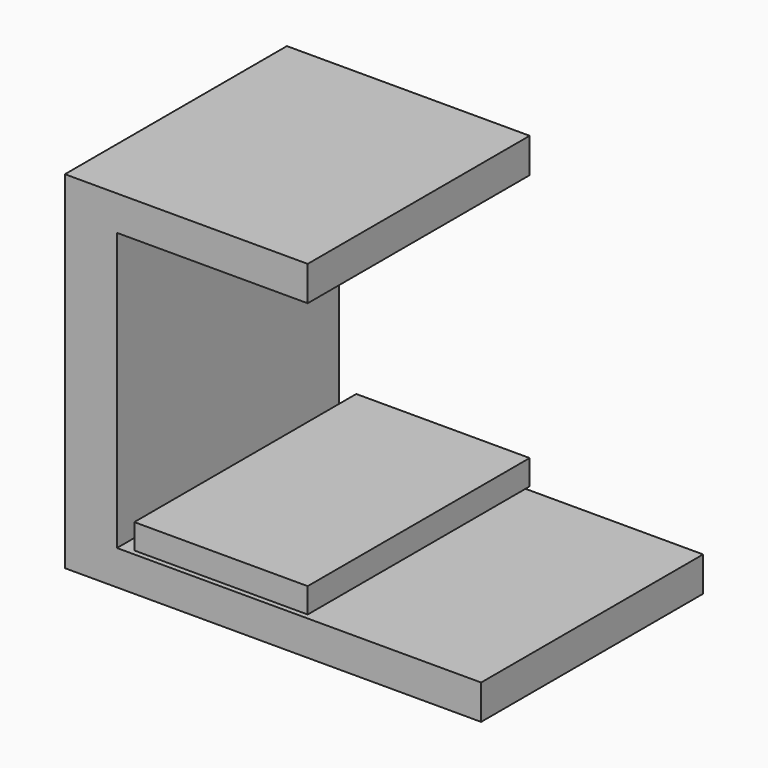
from build123d import *

# Parameters (mm, degrees)
F0_W     = 550
F0_H     = 100
F0_W_2   = 1050
F0_W_3   = 500
F0_H_2   = 72.028898
F1_DEPTH = 800


with BuildPart() as f1:
    # F0 (on Front) → F1 (new body)
    with BuildSketch(Plane.XZ):
        Polygon((-450, 500), (-600, 500), (-600, -500), (-450, -500), (-450, -400), (-450, 400), align=None)
        with Locations((-175, 450)):
            Rectangle(F0_W, F0_H)
        with Locations((75, -450)):
            Rectangle(F0_W_2, F0_H)
        with Locations((-150, -353.985551)):
            Rectangle(F0_W_3, F0_H_2)
    extrude(amount=F1_DEPTH)


solid = f1.part
